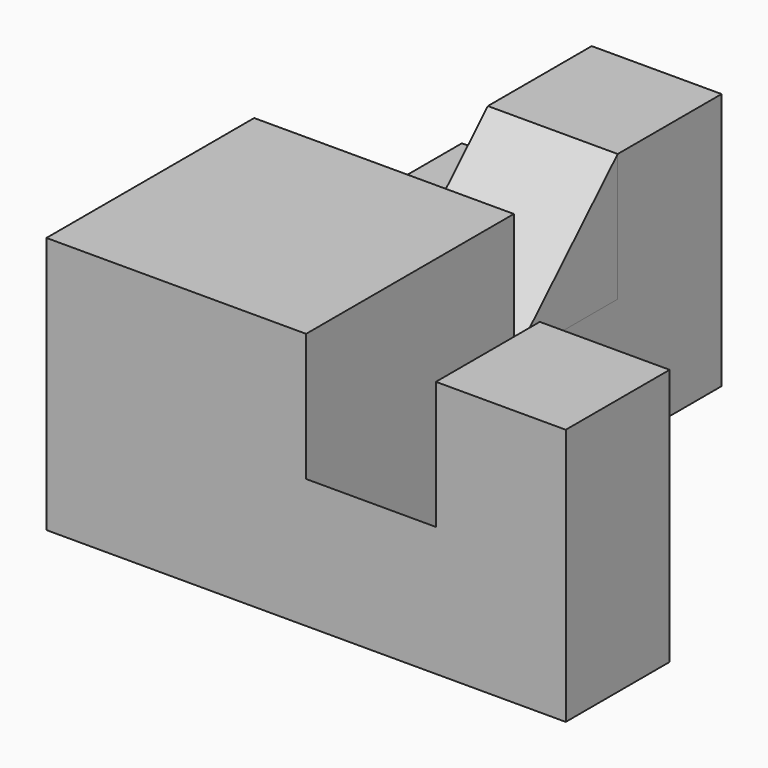
from build123d import *

# Parameters (mm, degrees)
F0_W      = 31.7
F0_H      = 31.7
F1_DEPTH  = 7.9
F2_W      = 15.85
F2_H      = 15.85
F3_DEPTH  = 7.8
F5_DEPTH  = 25
F6_W      = 7.925
F6_H      = 7.925
F7_DEPTH  = 7.8
F8_W      = 7.925
F8_H      = 7.925
F9_DEPTH  = 7.8
F11_DEPTH = 7.925
F13_DEPTH = 7.925


with BuildPart() as f1:
    # F0 (on Top) → F1 (new body)
    with BuildSketch(Plane.XY):
        with Locations((15.85, -15.85)):
            Rectangle(F0_W, F0_H)
    extrude(amount=F1_DEPTH)

    # F2 (on face) → F3 (join)
    with BuildSketch(Plane.XY.offset(7.9)):
        with Locations((7.925, -23.775)):
            Rectangle(F2_W, F2_H)
    extrude(amount=F3_DEPTH)

    # F4 (on face) → F5 (cut)
    with BuildSketch(Plane.XY.offset(7.9)):
        Polygon((15.85, 0), (15.85, -15.85), (15.85, -23.775), (31.7, -23.775), (31.7, 0), align=None)
    extrude(amount=-F5_DEPTH, mode=Mode.SUBTRACT)

    # F6 (on face) → F7 (join)
    with BuildSketch(Plane.XY.offset(7.9)):
        with Locations((27.7375, -27.7375)):
            Rectangle(F6_W, F6_H)
    extrude(amount=F7_DEPTH)

    # F8 (on face) → F9 (join)
    with BuildSketch(Plane.XY.offset(7.9)):
        with Locations((11.8875, -3.9625)):
            Rectangle(F8_W, F8_H)
    extrude(amount=F9_DEPTH)

    # F12 (on face) → F13 (cut, through all)
    with BuildSketch(Plane.YZ.offset(15.85)):
        Polygon((-23.775, 7.9), (-31.7, 7.9), (-23.775, 0), align=None)
    extrude(amount=F13_DEPTH, mode=Mode.SUBTRACT)


with BuildPart() as f11:
    # F10 (on face) → F11 (new body, through all)
    with BuildSketch(Plane.YZ.offset(15.85)):
        Polygon((-7.925, 7.9), (-7.925, 15.7), (-15.85, 7.9), align=None)
    extrude(amount=-F11_DEPTH)


solid = Compound([f1.part, f11.part])
